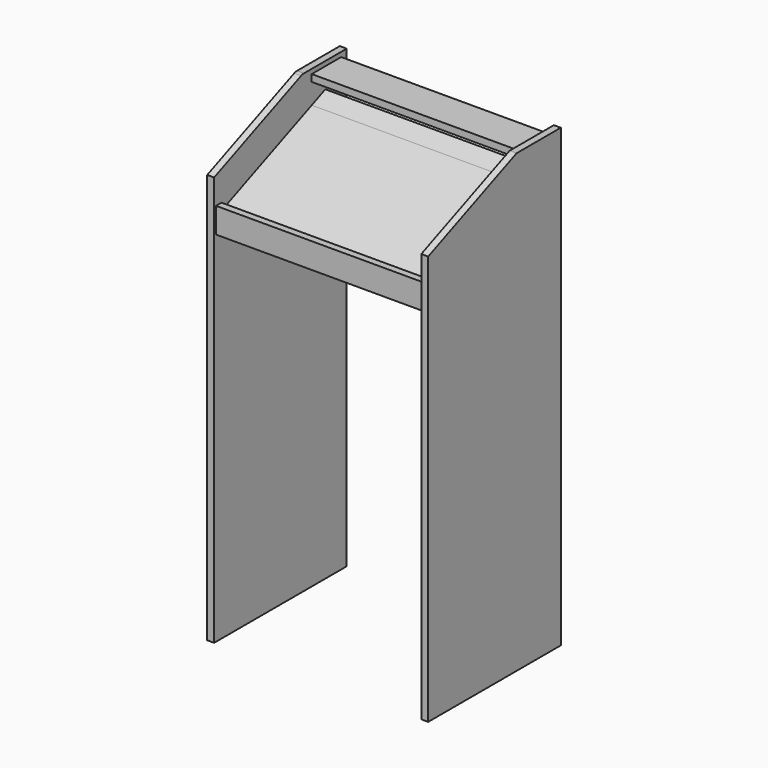
from build123d import *

# Parameters (mm, degrees)
F1_DEPTH  = 19.05
F2_W      = 101.6
F2_H      = 19.05
F3_DEPTH  = 571.5
F5_DEPTH  = 571.5
F6_W      = 571.5
F6_H      = 50.8
F7_DEPTH  = 6.35
F8_DEPTH  = 6.35
F9_W      = 101.6
F9_H      = 19.05
F10_DEPTH = 19.05
F11_DEPTH = 19.05
F12_DEPTH = 50.8


with BuildPart() as f1:
    # F0 (on Right) → F1 (new body)
    with BuildSketch(Plane.YZ):
        with BuildLine():
            Line((228.6, -628.65), (228.6, 628.65))
            Line((228.6, 628.65), (81.28, 628.65))
            ThreePointArc((81.28, 628.65), (76.2986501675, 628.1567491625), (71.5107692308, 626.6961538462))
            Line((71.5107692308, 626.6961538462), (-228.6, 501.65))
            Line((-228.6, 501.65), (-228.6, -628.65))
            Line((-228.6, -628.65), (228.6, -628.65))
        make_face()
    extrude(amount=F1_DEPTH)

    # F2 (on face) → F3 (join)
    with BuildSketch(Plane.YZ.offset(19.05)):
        with Locations((158.75, 606.425)):
            Rectangle(F2_W, F2_H)
    extrude(amount=F3_DEPTH)

    # F4 (on face) → F5 (join)
    with BuildSketch(Plane.YZ.offset(19.05)):
        Polygon((-209.55, 430.2125), (-228.6, 430.2125), (-228.6, 400.05), (-209.55, 407.9875), align=None)
        Polygon((-209.55, 407.9875), (-228.6, 400.05), (-228.6, 379.4125), (-209.55, 387.35), align=None)
        Polygon((-209.55, 387.35), (-228.6, 379.4125), (-209.55, 379.4125), align=None)
        Polygon((107.95, 540.2791666667), (-209.55, 407.9875), (-209.55, 387.35), (162.1692307692, 542.2330128205), (154.8423076923, 559.8176282051), align=None)
    extrude(amount=F5_DEPTH)

    # F6 (on face) → F7 (cut)
    with BuildSketch(Plane.XZ.offset(228.6)):
        with Locations((304.8, 404.8125)):
            Rectangle(F6_W, F6_H)
    extrude(amount=-F7_DEPTH, mode=Mode.SUBTRACT)

    # F8 (add): faces of the model
    f8_faces = [f1.faces().sort_by_distance(p)[0] for p in [
        (304.8, -209.55, 419.1),
        (304.8, -209.55, 383.38125),
    ]]
    extrude(f8_faces, amount=F8_DEPTH)

    # F9 (on face) → F10 (join)
    with BuildSketch(Plane.YZ.offset(590.55)):
        Polygon((228.6, 628.65), (209.55, 628.65), (76.2, 628.65), (-228.6, 501.65), (-228.6, -628.65), (228.6, -628.65), align=None)
        with Locations((158.75, 606.425)):
            Rectangle(F9_W, F9_H, mode=Mode.SUBTRACT)
        with Locations((158.75, 606.425)):
            Rectangle(F9_W, F9_H)
    extrude(amount=F10_DEPTH)

    # F11 (add): a face of the model
    f11_faces = [f1.faces().sort_by_distance(p)[0] for p in [
        (304.8, -212.725, 379.4125),
    ]]
    extrude(f11_faces, amount=F11_DEPTH)

    # F12 (add): a face of the model
    f12_faces = [f1.faces().sort_by_distance(p)[0] for p in [
        (304.8, -203.2, 373.85625),
    ]]
    extrude(f12_faces, amount=F12_DEPTH)


solid = f1.part
